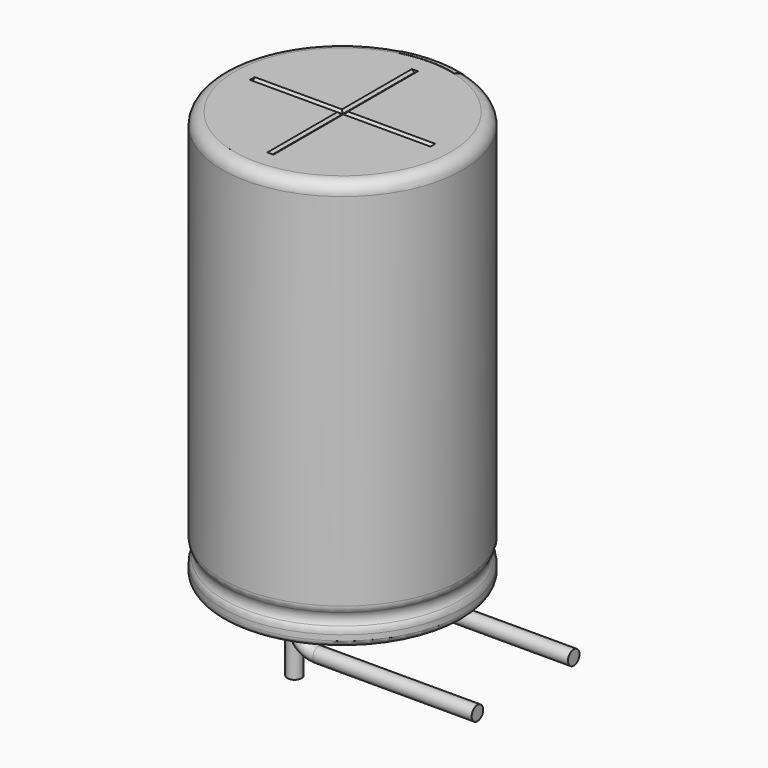
from build123d import *

# Parameters (mm, degrees)
SKETCH010_R         = 0.3
PAD002_DEPTH        = 2.6
REVOLUTION001_ANGLE = -30
SKETCH015_W         = 0.5
SKETCH015_H         = 1
POCKET002_DEPTH     = 5.011
LINEARPATTERN_COUNT = 4
LINEARPATTERN_PITCH = 4.666667
SKETCH012_R         = 4.5
POCKET_DEPTH        = 0.5
SKETCH003_R         = 0.3
SKETCH013_R         = 4.5
PAD_DEPTH           = 0.5
POCKET001_DEPTH     = 3.75
POLARPATTERN_COUNT  = 3
POLARPATTERN_ANGLE  = 180


with BuildPart() as obj1:
    # Sketch010 → Pad002 (new body)
    with BuildSketch(Plane(origin=(0, 2.5, 0), x_dir=(1, 0, 0), z_dir=(0, 0, 1))):
        Circle(SKETCH010_R)
    extrude(amount=-PAD002_DEPTH)


with BuildPart() as obj1_1:
    # Body007 placement: moved
    add(obj1.part.moved(Location((0, -5, 0))))


with BuildPart() as polaritymarking:
    # Sketch005 → Revolution001 (revolve)
    with BuildSketch(Plane(origin=(0, 0, 0), x_dir=(-0.258819, 0.965926, 0), z_dir=(0.965926, 0.258819, 0))):
        with BuildLine():
            Line((4.51, 0.25), (4.51, 17.01))
            ThreePointArc((4.51, 17.01), (4.863553, 16.863553), (5.01, 16.51))
            Line((5.01, 16.51), (5.01, 1.523941))
            ThreePointArc((5.01, 1.523941), (4.989134, 1.381006), (4.928278, 1.25))
            ThreePointArc((4.928278, 1.25), (4.853698, 1), (4.928278, 0.75))
            ThreePointArc((4.928278, 0.75), (4.989134, 0.618994), (5.01, 0.476059))
            Line((5.01, 0.476059), (5.01, 0.25))
            ThreePointArc((5.01, 0.25), (4.76, 0), (4.51, 0.25))
        make_face()
    revolve(axis=Axis((0, 0, 0), (0, 0, 1)), revolution_arc=REVOLUTION001_ANGLE)

    # Sketch015 → Pocket002 (cut, through all)
    with BuildSketch(Plane.XZ):
        with Locations((0, 2)):
            Rectangle(SKETCH015_W, SKETCH015_H)
    pocket002 = extrude(amount=-POCKET002_DEPTH, mode=Mode.SUBTRACT)

    # LinearPattern: Pocket002 ×4
    with Locations(*[(0, 0, i * LINEARPATTERN_PITCH) for i in range(1, LINEARPATTERN_COUNT)]):
        add(pocket002, mode=Mode.SUBTRACT)


with BuildPart() as housing:
    # Sketch → Revolution (revolve)
    with BuildSketch(Plane.XZ):
        with BuildLine():
            Line((0, 17), (4.5, 17))
            ThreePointArc((5, 16.5), (4.853553, 16.853553), (4.5, 17))
            Line((5, 16.5), (5, 1.523941))
            ThreePointArc((4.918278, 1.25), (4.979134, 1.381006), (5, 1.523941))
            ThreePointArc((4.918278, 1.25), (4.843698, 1), (4.918278, 0.75))
            ThreePointArc((5, 0.476059), (4.979134, 0.618994), (4.918278, 0.75))
            Line((5, 0.476059), (5, 0.25))
            ThreePointArc((4.75, 0), (4.926777, 0.073223), (5, 0.25))
            Line((0, 0), (4.75, 0))
            Line((0, 17), (0, 0))
        make_face()
    revolve(axis=Axis((0, 0, 0), (0, 0, 1)))

    # Sketch012 → Pocket (cut)
    with BuildSketch(Plane.XY.offset(17)):
        Circle(SKETCH012_R)
    extrude(amount=-POCKET_DEPTH, mode=Mode.SUBTRACT)


with BuildPart() as obj2:
    # AdditivePipe: sweep along a path in Sketch004
    with BuildLine(Plane.XZ) as additivepipe_path:
        Line((0, 0), (0, -0.5))
        ThreePointArc((0, -0.5), (0.292893, -1.207107), (1, -1.5))
        Line((1, -1.5), (7.6, -1.5))
    # Sketch003 (on ShapeBinder) → AdditivePipe (sweep)
    with BuildSketch(Plane(origin=(0, 0, 0), x_dir=(1, 0, 0), z_dir=(0, 0, -1))):
        with Locations((0, 2.5)):
            Circle(SKETCH003_R)
    sweep(path=additivepipe_path.line)


with BuildPart() as obj3:
    # Body003 base: copy of obj2
    add(obj2.part)


with BuildPart() as obj3_1:
    # Body003 placement: moved
    add(obj3.part.moved(Location((0, 5, 0))))


with BuildPart() as fusion:
    # Sketch013 (on ShapeBinder) → Pad (new body)
    with BuildSketch(Plane.XY.offset(16.5)):
        Circle(SKETCH013_R)
    extrude(amount=PAD_DEPTH)

    # Sketch014 → Pocket001 (cut, symmetric)
    with BuildSketch(Plane.XZ):
        Polygon((-0.125, 17), (0.125, 17), (0.025, 16.9), (-0.025, 16.9), align=None)
    pocket001 = extrude(amount=POCKET001_DEPTH, both=True, mode=Mode.SUBTRACT)

    # PolarPattern: Pocket001 ×3 about axis
    polarpattern_axis = Axis((0, 0, 0), (0, 0, 1))
    for i in range(1, POLARPATTERN_COUNT):
        add(pocket001.rotate(polarpattern_axis, i * POLARPATTERN_ANGLE / (POLARPATTERN_COUNT - 1)), mode=Mode.SUBTRACT)

    # Fusion: union PolarityMarking, Housing, obj3, obj2
    add(polaritymarking.part)
    add(housing.part)
    add(obj3_1.part)
    add(obj2.part)


solid = Compound([obj1_1.part, fusion.part])
